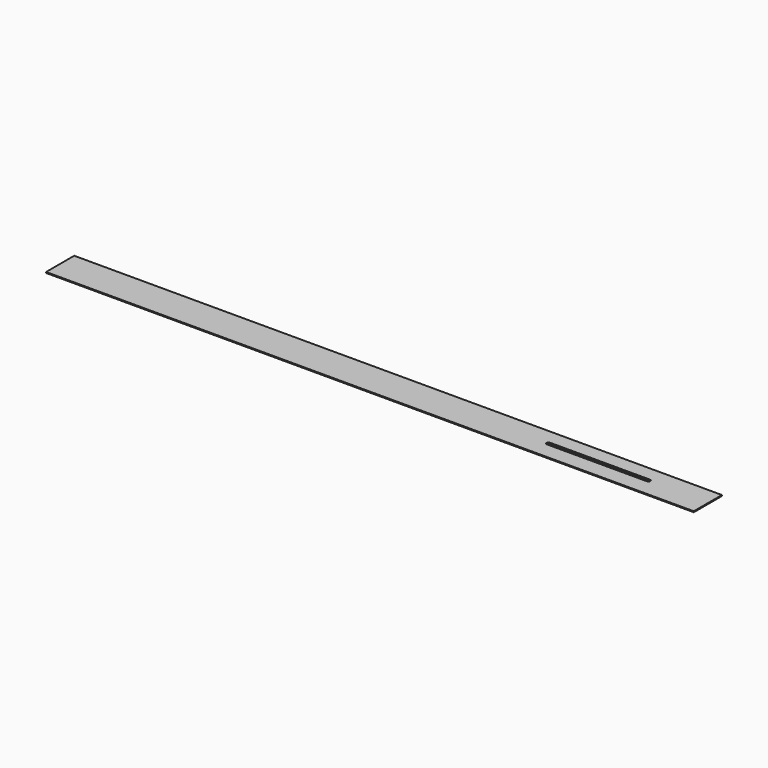
from build123d import *

# Parameters (mm, degrees)
F0_W     = 700
F0_H     = 38
F1_DEPTH = 1
F3_DEPTH = 1


with BuildPart() as f1:
    # F0 (on Top) → F1 (new body)
    with BuildSketch(Plane.XY):
        Rectangle(F0_W, F0_H)
    extrude(amount=F1_DEPTH)

    # F2 (on face) → F3 (cut)
    with BuildSketch(Plane.XY.offset(1)):
        with BuildLine():
            Line((285, 3), (177, 3))
            ThreePointArc((177, 3), (175.585786, 2.414214), (175, 1))
            ThreePointArc((175, 1), (175.585786, -0.414214), (177, -1))
            Line((177, -1), (285, -1))
            ThreePointArc((285, -1), (286.414214, -0.414214), (287, 1))
            ThreePointArc((287, 1), (286.414214, 2.414214), (285, 3))
        make_face()
    extrude(amount=-F3_DEPTH, mode=Mode.SUBTRACT)


solid = f1.part
